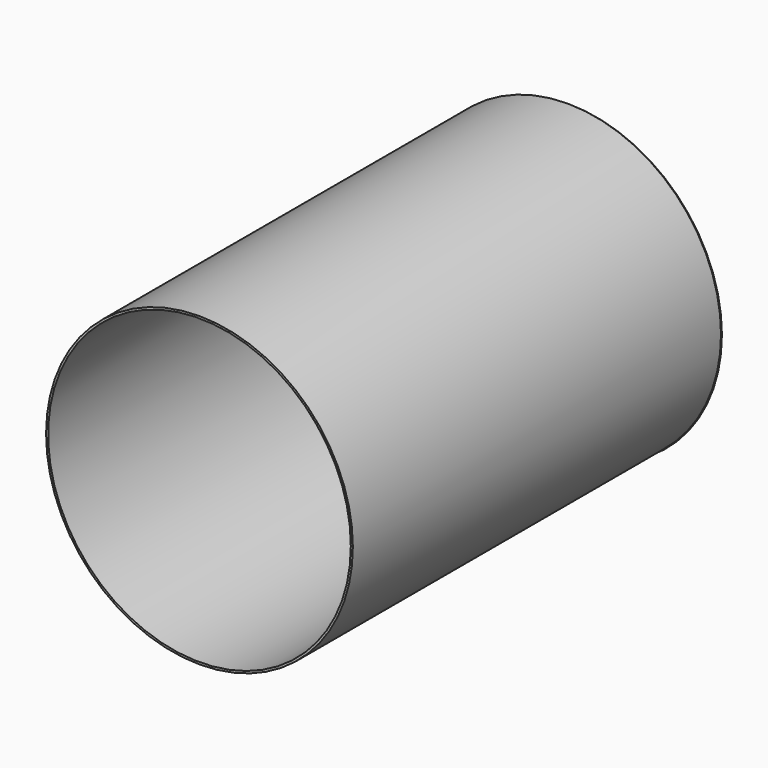
from build123d import *

# Parameters (mm, degrees)
F0_R     = 300
F0_R_2   = 296
F1_DEPTH = 900
F4_R     = 50.52
F5_DEPTH = 250


with BuildPart() as f1:
    # F0 (on Front) → F1 (new body)
    with BuildSketch(Plane.XZ):
        with Locations((-1.797136, 0)):
            Circle(F0_R)
        with Locations((-1.797136, 0)):
            Circle(F0_R_2, mode=Mode.SUBTRACT)
    extrude(amount=F1_DEPTH)

    # F2 (on Right) → F3 (revolve)
    with BuildSketch(Plane.YZ):
        Polygon((209.546715, 0), (0, 0), (0, -300), (209.546715, -50.52), align=None)
    revolve(axis=Axis((0, 104.773358, 0), (0, 1, 0)))

    # F4 (on face) → F5 (cut)
    with BuildSketch(Plane(origin=(0, 209.546715, 0), x_dir=(-1, 0, 0), z_dir=(0, 1, 0))):
        Circle(F4_R)
    extrude(amount=-F5_DEPTH, mode=Mode.SUBTRACT)


solid = f1.part
